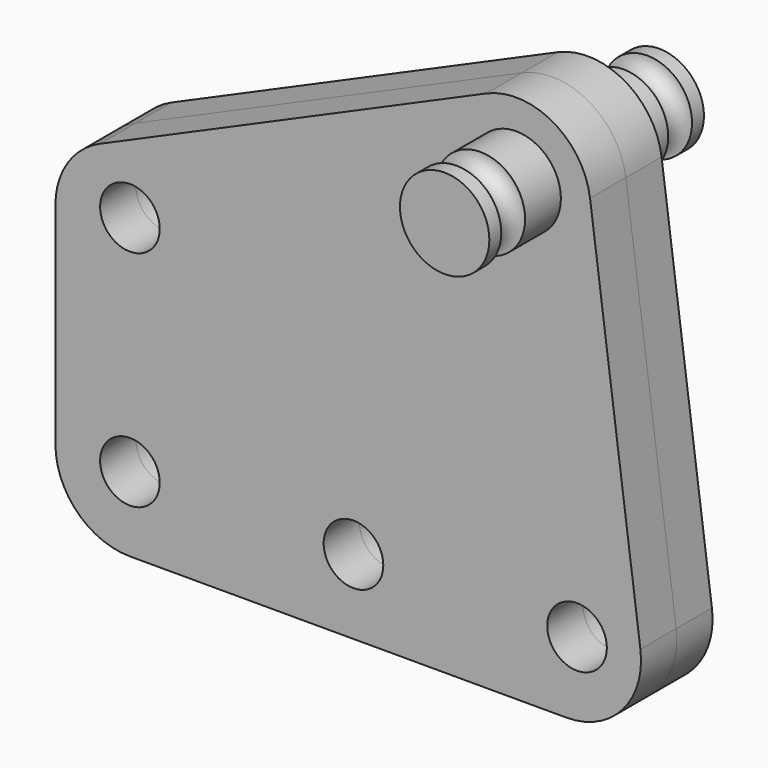
from build123d import *

# Parameters (mm, degrees)
F0_R      = 2
F1_DEPTH  = 3
F2_R      = 5
F3_R      = 3
F4_DEPTH  = 6
F6_R      = 1
F8_R      = 5
F9_R      = 2
F10_DEPTH = 25


with BuildPart() as f1:
    # F0 (on Front) → F1 (new body)
    with BuildSketch(Plane.XZ):
        Polygon((-20, -20), (20, -20), (15, 17.800641), (-20, 2.405128), align=None)
        with Locations((15, -15)):
            Circle(F0_R, mode=Mode.SUBTRACT)
        with Locations((-15, 0)):
            Circle(F0_R, mode=Mode.SUBTRACT)
    extrude(amount=F1_DEPTH)

    # F2
    f2_edges = [f1.edges().sort_by_distance(p)[0] for p in [
        (15, -1.5, 17.800641),
        (-20, -1.5, 2.405128),
        (20, -1.5, -20),
    ]]
    fillet(f2_edges, radius=F2_R)

    # F3 (on face) → F4 (join)
    with BuildSketch(Plane.XZ.offset(3)):
        with Locations((10.916557, 10.542107)):
            Circle(F3_R)
    extrude(amount=F4_DEPTH)

    # F6 (on face) → F7 (revolve, cut)
    with BuildSketch(Plane(origin=(0, 0, 10.542107), x_dir=(1, 0, 0), z_dir=(0, 0, -1))):
        with Locations((7.916557, 7)):
            Circle(F6_R)
    revolve(axis=Axis((10.916557, -9, 10.542107), (0, -1, 0)), mode=Mode.SUBTRACT)

    # F8
    f8_edges = [f1.edges().sort_by_distance(p)[0] for p in [
        (-20, -1.5, -20),
    ]]
    fillet(f8_edges, radius=F8_R)

    # F9 (on face) → F10 (cut)
    with BuildSketch(Plane.XZ.offset(3)):
        with Locations((-15, -15)):
            Circle(F9_R)
        with Locations((0, -15)):
            Circle(F9_R)
    extrude(amount=-F10_DEPTH, mode=Mode.SUBTRACT)


with BuildPart() as f11_1:
    # F11: instance of F1
    add(f1.part.mirror(Plane.XZ))


solid = Compound([f1.part, f11_1.part])
